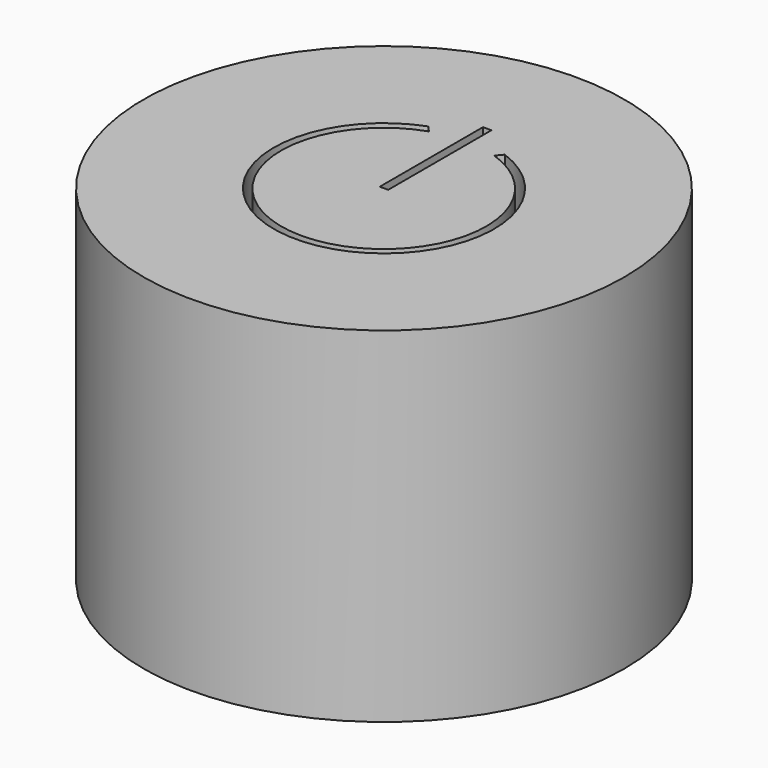
from build123d import *

# Parameters (mm, degrees)
F0_R     = 8.859609
F1_DEPTH = 12.7


with BuildPart() as f1:
    # F0 (on Top) → F1 (new body)
    with BuildSketch(Plane.XY):
        Circle(F0_R)
        with BuildLine():
            Line((-1.406572, 3.808896), (-1.203709, 3.572117))
            ThreePointArc((-1.203709, 3.572117), (0, -3.79145), (1.203709, 3.572117))
            Line((1.203709, 3.572117), (1.406572, 3.808896))
            ThreePointArc((1.406572, 3.808896), (0, -4.059917), (-1.406572, 3.808896))
        make_face(mode=Mode.SUBTRACT)
        Polygon((0.155893, 0.000204), (0, 0.000204), (-0.155892, 0.000204), (-0.155892, 4.754901), (0.155893, 4.754901), align=None, mode=Mode.SUBTRACT)
    extrude(amount=-F1_DEPTH)


solid = f1.part
